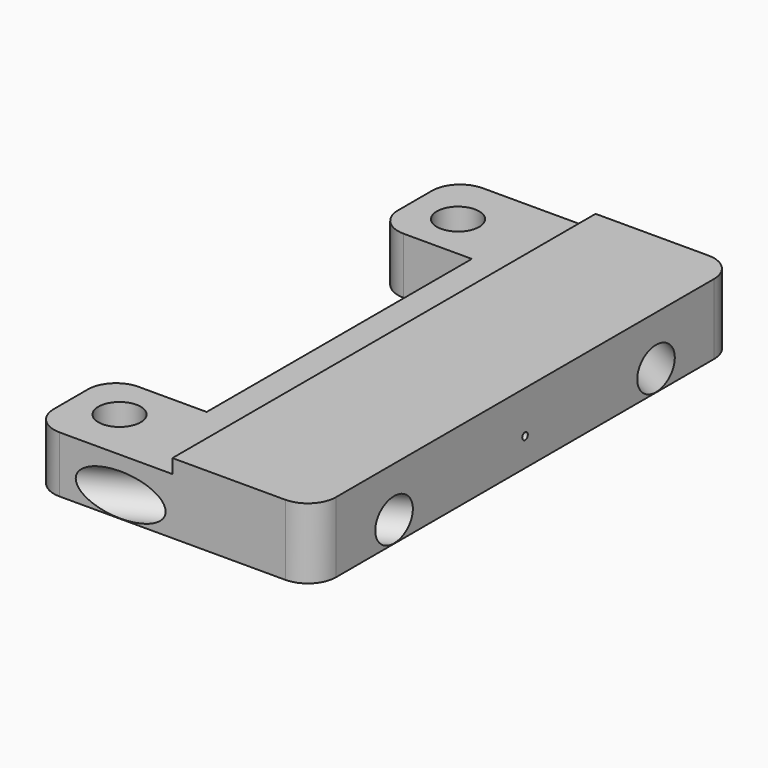
from build123d import *

# Parameters (mm, degrees)
F0_W      = 20
F0_H      = 37.5
F1_DEPTH  = 5
F2_W      = 10
F2_H      = 37.5
F3_DEPTH  = 1
F5_D      = 3
F6_W      = 6.8271449069
F6_H      = 23.5
F7_DEPTH  = 6
F8_R      = 2
F12_R     = 1.475
F13_DEPTH = 26
F16_R     = 1.475
F17_DEPTH = 27.5
F19_R     = 0.25
F20_DEPTH = 27.5


with BuildPart() as f1:
    # F0 (on Top) → F1 (new body)
    with BuildSketch(Plane.XY):
        Rectangle(F0_W, F0_H)
    extrude(amount=F1_DEPTH)

    # F2 (on face) → F3 (cut)
    with BuildSketch(Plane.XY.offset(5)):
        with Locations((-5, 0)):
            Rectangle(F2_W, F2_H)
    extrude(amount=-F3_DEPTH, mode=Mode.SUBTRACT)

    # F5 (through all)
    with Locations(Plane(origin=(0, 0, 0), x_dir=(1, 0, 0), z_dir=(0, 0, -1))):
        with Locations((-6.75, 15), (-6.75, -15)):
            Hole(F5_D / 2)

    # F6 (on Top) → F7 (cut)
    with BuildSketch(Plane.XY):
        with Locations((-6.5864275466, 0)):
            Rectangle(F6_W, F6_H)
    extrude(amount=F7_DEPTH, mode=Mode.SUBTRACT)

    # F8
    f8_edges = [f1.edges().sort_by_distance(p)[0] for p in [
        (-10, -18.75, 2),
        (10, -18.75, 2.5),
        (10, 18.75, 2.5),
        (-10, 18.75, 2),
        (-10, -11.75, 2),
        (-10, 11.75, 2),
    ]]
    fillet(f8_edges, radius=F8_R)

    # F12 (on line) → F13 (cut, symmetric)
    with BuildSketch(Plane(origin=(2.3968290702, -1.2522454416, 0), x_dir=(0.4630676024, 0.8863229635, 0), z_dir=(0.8863229635, -0.4630676024, 0))):
        with Locations((14.9191381368, 1.5)):
            Circle(F12_R)
    extrude(amount=F13_DEPTH, both=True, mode=Mode.SUBTRACT)

    # F16 (on line) → F17 (cut, symmetric)
    with BuildSketch(Plane(origin=(-0.5234543941, -0.2734835734, 0), x_dir=(-0.4630676024, 0.8863229635, 0), z_dir=(0.8863229635, 0.4630676024, 0))):
        with Locations((-14.9191381368, 1.5)):
            Circle(F16_R)
    extrude(amount=F17_DEPTH, both=True, mode=Mode.SUBTRACT)

    # F19 (on face) → F20 (cut, symmetric)
    with BuildSketch(Plane.YZ.offset(10)):
        with Locations((0, 2)):
            Circle(F19_R)
    extrude(amount=F20_DEPTH, both=True, mode=Mode.SUBTRACT)


solid = f1.part
